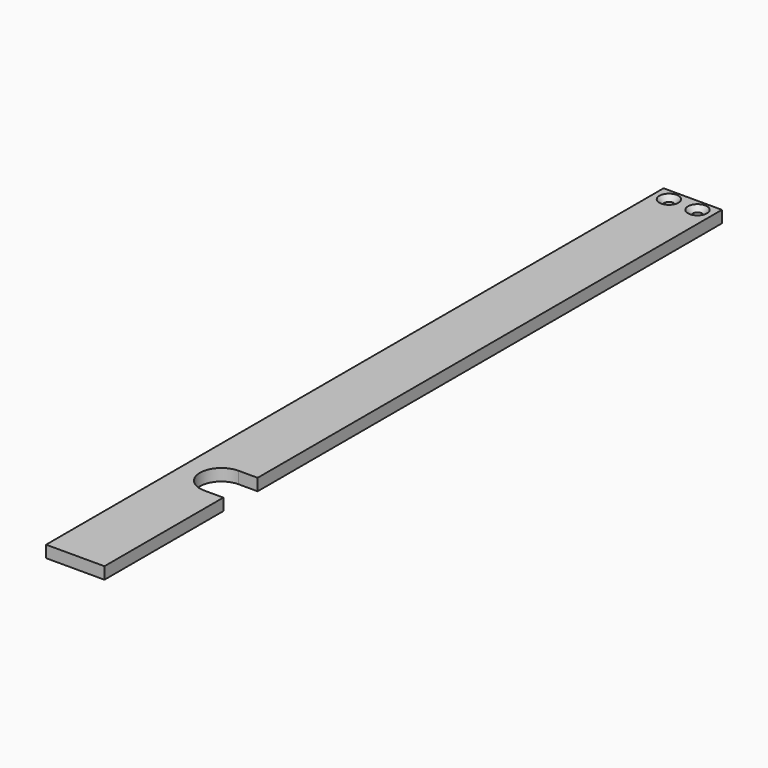
from build123d import *

# Parameters (mm, degrees)
PAD026_DEPTH    = 5
SKETCH058_R     = 2
POCKET036_DEPTH = 5.001
CHAMFER020_SIZE = 2


with BuildPart() as part:
    # Sketch053 → Pad026 (new body)
    with BuildSketch(Plane.XY):
        with BuildLine():
            Line((-81.323184, -45.417713), (-81.323184, -107.8))
            Line((-81.323184, -107.8), (-105.823184, -107.8))
            Line((-105.823184, -107.8), (-105.823184, 216.2))
            Line((-105.823184, 216.2), (-81.323184, 216.2))
            Line((-81.323184, 216.2), (-81.323184, -27.417713))
            Line((-89.323184, -27.417713), (-81.323184, -27.417713))
            ThreePointArc((-89.323184, -27.417713), (-98.323184, -36.417713), (-89.323184, -45.417713))
            Line((-89.323184, -45.417713), (-81.323184, -45.417713))
        make_face()
    extrude(amount=PAD026_DEPTH)

    # Sketch058 (on Face10 of Pad026) → Pocket036 (cut, through all)
    with BuildSketch(Plane.XY.offset(5)):
        with Locations((-99.573184, 211.2)):
            Circle(SKETCH058_R)
        with Locations((-87.573184, 211.2)):
            Circle(SKETCH058_R)
    extrude(amount=-POCKET036_DEPTH, mode=Mode.SUBTRACT)

    # Chamfer020
    chamfer020_edges = [part.edges().sort_by_distance(p)[0] for p in [
        (-89.573184, 211.2, 5),
        (-101.573184, 211.2, 5),
    ]]
    chamfer(chamfer020_edges, length=CHAMFER020_SIZE)


with BuildPart() as part_1:
    # Body019 placement: moved
    add(part.part.moved(Location((-50, 0, 15.5))))


with BuildPart() as part_2:
    # Clone006 placement: moved
    add(part_1.part.moved(Location((195.823184, 107.8, -20.5))))


solid = part_2.part
